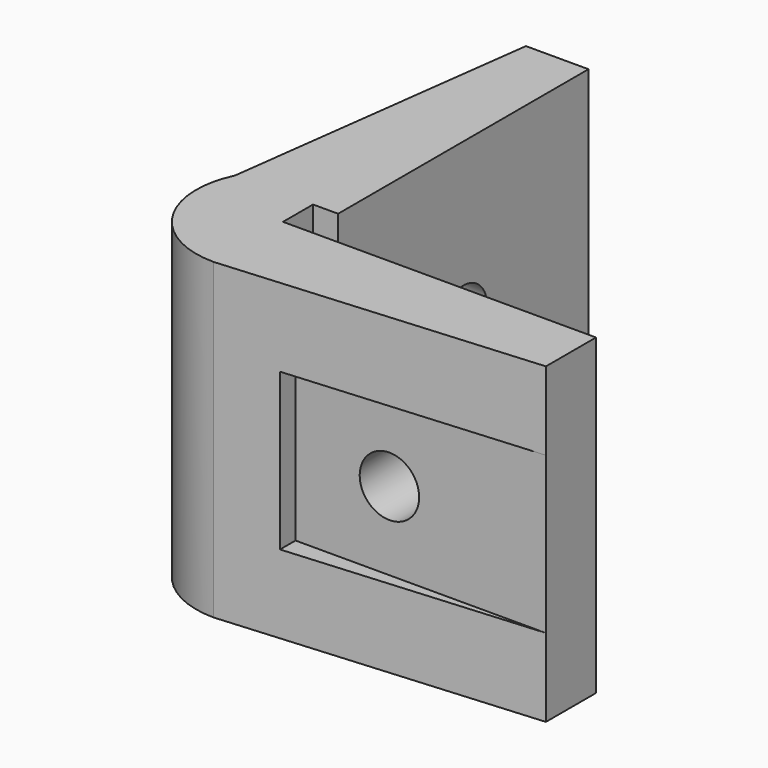
from build123d import *

# Parameters (mm, degrees)
PAD_DEPTH       = 25.4
SKETCH001_R     = 2.413
POCKET_DEPTH    = 10.16
SKETCH002_R     = 2.413
POCKET001_DEPTH = 10.16
SKETCH003_W     = 3.302
SKETCH003_H     = 12.7
POCKET002_DEPTH = 20.32
SKETCH004_W     = 1.963636
SKETCH004_H     = 12.7
POCKET003_DEPTH = 20.32


with BuildPart() as part:
    # Sketch → Pad (new body)
    with BuildSketch(Plane.XY):
        with BuildLine():
            Line((25.4, 0), (0, 0))
            Line((0, 3.048), (0, 0))
            Line((0, 3.048), (2.032, 3.048))
            Line((2.032, 3.048), (2.032, 28.448))
            Line((2.032, 28.448), (-3.048, 28.448))
            Line((-3.048, 28.448), (-6.35, 3.048))
            ThreePointArc((-6.35, 3.048), (-5.961619, -3.751253), (0, -7.043636))
            Line((0, -7.043636), (25.4, -5.08))
            Line((25.4, 0), (25.4, -5.08))
        make_face()
    extrude(amount=PAD_DEPTH)

    # Sketch001 (on Face4 of Pad) → Pocket (cut)
    with BuildSketch(Plane.YZ.offset(2.032)):
        with Locations((15.748, 12.7)):
            Circle(SKETCH001_R)
    extrude(amount=-POCKET_DEPTH, mode=Mode.SUBTRACT)

    # Sketch002 (on Face1 of Pocket) → Pocket001 (cut)
    with BuildSketch(Plane(origin=(0, 0, 0), x_dir=(-1, 0, 0), z_dir=(0, 1, 0))):
        with Locations((-12.7, 12.7)):
            Circle(SKETCH002_R)
    extrude(amount=-POCKET001_DEPTH, mode=Mode.SUBTRACT)

    # Sketch003 (on Face10 of Pocket001) → Pocket002 (cut)
    with BuildSketch(Plane(origin=(0, 28.448, 0), x_dir=(-1, 0, 0), z_dir=(0, 1, 0))):
        with Locations((4.699, 12.7)):
            Rectangle(SKETCH003_W, SKETCH003_H)
    extrude(amount=-POCKET002_DEPTH, mode=Mode.SUBTRACT)

    # Sketch004 (on Face2 of Pocket002) → Pocket003 (cut)
    with BuildSketch(Plane.YZ.offset(25.4)):
        with Locations((-6.061818, 12.7)):
            Rectangle(SKETCH004_W, SKETCH004_H)
    extrude(amount=-POCKET003_DEPTH, mode=Mode.SUBTRACT)


solid = part.part
